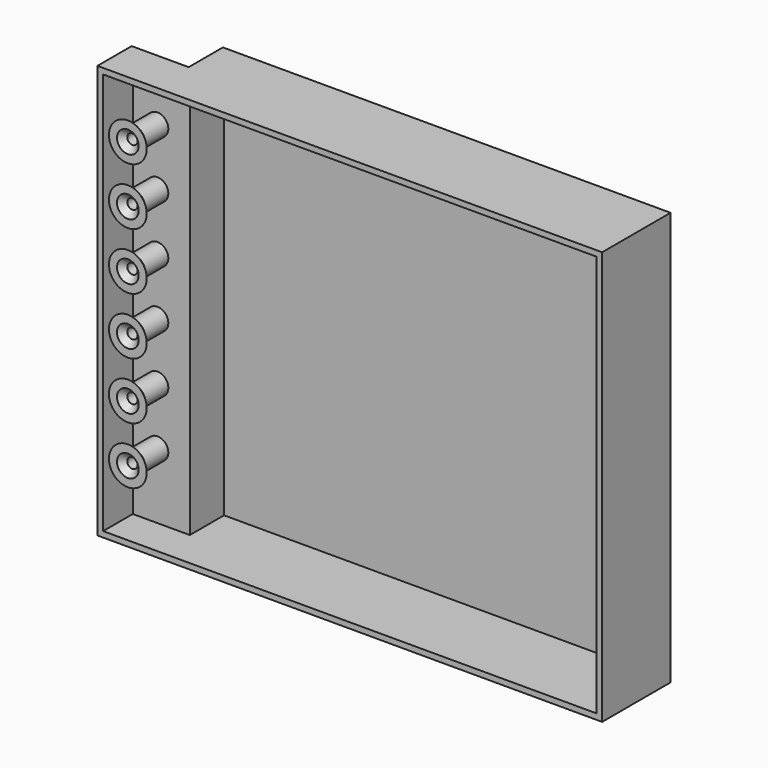
from build123d import *

# Parameters (mm, degrees)
F0_W     = 199.39
F0_H     = 38.1
F1_DEPTH = 184.15
F2_W     = 19.05
F2_H     = 184.15
F3_DEPTH = 25.4
F4_R     = 2.286
F5_DEPTH = 25.4
F6_SIZE  = 2.54
F7_T     = -2.54


with BuildPart() as f1:
    # F0 (on Top) → F1 (new body)
    with BuildSketch(Plane.XY):
        with Locations((99.695, 19.05)):
            Rectangle(F0_W, F0_H)
    extrude(amount=F1_DEPTH)

    # F2 (on face) → F3 (join)
    with BuildSketch(Plane(origin=(0, 0, 0), x_dir=(0, -1, 0), z_dir=(-1, 0, 0))):
        with Locations((-9.525, 92.075)):
            Rectangle(F2_W, F2_H)
    extrude(amount=F3_DEPTH)

    # F4 (on face) → F5 (cut)
    with BuildSketch(Plane(origin=(0, 19.05, 0), x_dir=(-1, 0, 0), z_dir=(0, 1, 0))):
        with Locations((11.8618, 158.75)):
            Circle(F4_R)
        with Locations((11.8618, 133.35)):
            Circle(F4_R)
        with Locations((11.8618, 107.95)):
            Circle(F4_R)
        with Locations((11.8618, 82.55)):
            Circle(F4_R)
        with Locations((11.8618, 57.15)):
            Circle(F4_R)
        with Locations((11.8618, 31.75)):
            Circle(F4_R)
    extrude(amount=-F5_DEPTH, mode=Mode.SUBTRACT)

    # F6
    f6_edges = [f1.edges().sort_by_distance(p)[0] for p in [
        (-9.5758, 0, 158.75),
        (-9.5758, 0, 133.35),
        (-9.5758, 0, 107.95),
        (-9.5758, 0, 82.55),
        (-9.5758, 0, 57.15),
        (-9.5758, 0, 31.75),
    ]]
    chamfer(f6_edges, length=F6_SIZE)

    # F7
    f7_openings = [f1.faces().sort_by_distance(p)[0] for p in [
        (88.054654, 0, 92.040967),
    ]]
    offset(amount=F7_T, openings=f7_openings, kind=Kind.INTERSECTION)


solid = f1.part
